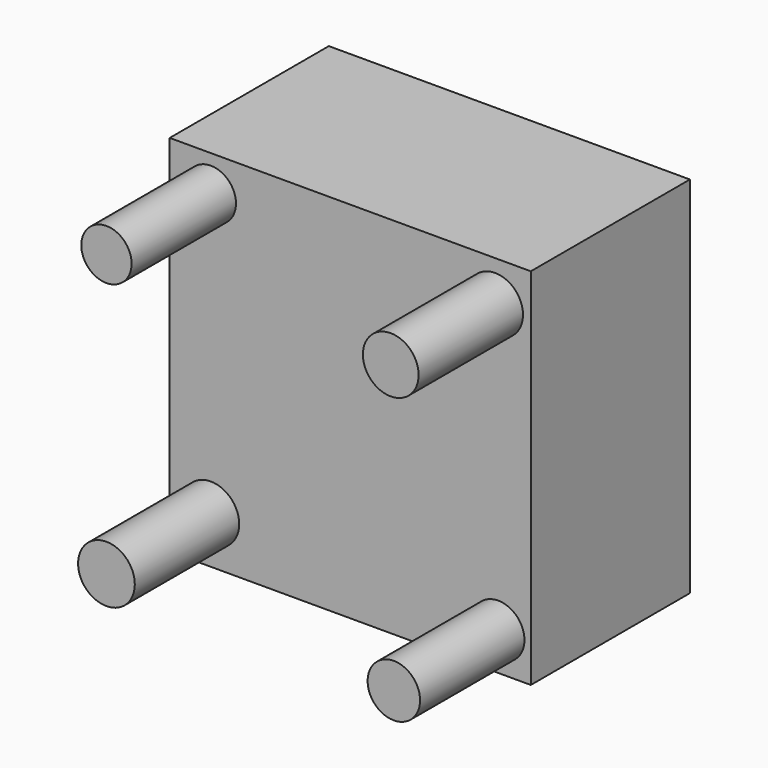
from build123d import *

# Parameters (mm, degrees)
F0_W     = 69.181578
F0_H     = 69.78316
F1_DEPTH = 38.1
F2_R     = 4.819386
F2_R_2   = 5.434806
F2_R_3   = 5.024181
F2_R_4   = 5.337165
F3_DEPTH = 25


with BuildPart() as f1:
    # F0 (on Front) → F1 (new body)
    with BuildSketch(Plane.XZ):
        with Locations((4.662237, 10.978817)):
            Rectangle(F0_W, F0_H)
    extrude(amount=F1_DEPTH)

    # F2 (on face) → F3 (join)
    with BuildSketch(Plane.XZ.offset(38.1)):
        with Locations((-22.055922, 38.930923)):
            Circle(F2_R)
        with Locations((-22.055922, -14.950659)):
            Circle(F2_R_2)
        with Locations((33.009872, -16.726974)):
            Circle(F2_R_3)
        with Locations((32.417767, 38.042765)):
            Circle(F2_R_4)
    extrude(amount=F3_DEPTH)


solid = f1.part
